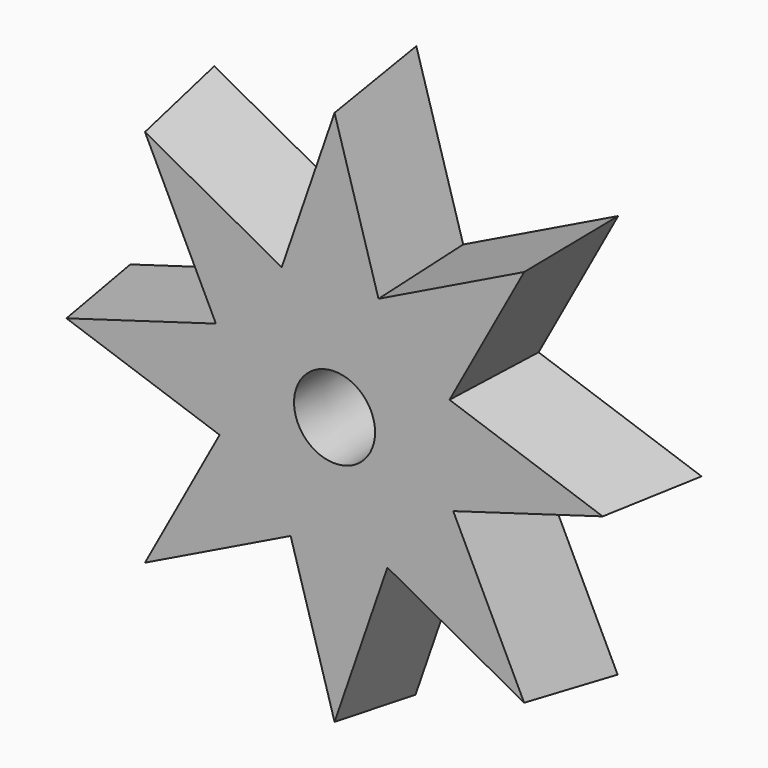
from build123d import *

# Parameters (mm, degrees)
F0_R     = 7.6071600852
F1_DEPTH = 19.09754
F1_TAPER = -3


with BuildPart() as f1:
    # F0 (on Front) → F1 (new body)
    with BuildSketch(Plane.XZ):
        with BuildLine():
            ThreePointArc((-4.6388319141, 18.7061527472), (-1.4012654558, 19.2217420452), (1.8768469353, 19.1811458915))
            Line((1.8768469353, 19.1811458915), (8.2491056776, 22.2835490331))
            Line((8.2491056776, 22.2835490331), (0, 50.3449775279))
            Line((0, 50.3449775279), (-9.9238500669, 21.5898471936))
            Line((-9.9238500669, 21.5898471936), (-4.6388319141, 18.7061527472))
        make_face()
        with BuildLine():
            Line((9.9238500669, -21.5898471936), (4.6388319141, -18.7061527472))
            ThreePointArc((4.6388319141, -18.7061527472), (1.4012654558, -19.2217420452), (-1.8768469353, -19.1811458915))
            Line((-1.8768469353, -19.1811458915), (-8.2491056776, -22.2835490331))
            Line((-8.2491056776, -22.2835490331), (0, -50.3449775279))
            Line((0, -50.3449775279), (9.9238500669, -21.5898471936))
        make_face()
        with BuildLine():
            Line((-8.2491056776, -22.2835490331), (-1.8768469353, -19.1811458915))
            ThreePointArc((-1.8768469353, -19.1811458915), (-6.0612417477, -18.294815129), (-9.9470979542, -16.5073969607))
            Line((-9.9470979542, -16.5073969607), (-8.2491056776, -22.2835490331))
        make_face()
        with BuildLine():
            ThreePointArc((18.7061527472, 4.6388319141), (19.1305766639, 2.3366532985), (19.2727505076, 0))
            ThreePointArc((19.2727505076, 0), (19.2498357311, -0.9395405559), (19.1811458915, -1.8768469353))
            Line((19.1811458915, -1.8768469353), (22.2835490331, -8.2491056776))
            Line((22.2835490331, -8.2491056776), (50.3449775279, 0))
            Line((50.3449775279, 0), (21.5898471936, 9.9238500669))
            Line((21.5898471936, 9.9238500669), (18.7061527472, 4.6388319141))
        make_face()
        with BuildLine():
            Line((22.2835490331, -8.2491056776), (16.5073969607, -9.9470979542))
            ThreePointArc((16.5073969607, -9.9470979542), (14.5826684524, -12.6009798404), (12.2359871356, -14.890249526))
            Line((12.2359871356, -14.890249526), (9.9238500669, -21.5898471936))
            Line((9.9238500669, -21.5898471936), (35.5992750086, -35.5992750086))
            Line((35.5992750086, -35.5992750086), (22.2835490331, -8.2491056776))
        make_face()
        with BuildLine():
            ThreePointArc((14.890249526, 12.2359871356), (17.2223329805, 8.6504426961), (18.7061527472, 4.6388319141))
            Line((18.7061527472, 4.6388319141), (21.5898471936, 9.9238500669))
            Line((21.5898471936, 9.9238500669), (14.890249526, 12.2359871356))
        make_face()
        with BuildLine():
            ThreePointArc((1.8768469353, 19.1811458915), (6.0612417477, 18.294815129), (9.9470979542, 16.5073969607))
            Line((9.9470979542, 16.5073969607), (8.2491056776, 22.2835490331))
            Line((8.2491056776, 22.2835490331), (1.8768469353, 19.1811458915))
        make_face()
        with BuildLine():
            ThreePointArc((-19.1811458915, 1.8768469353), (-18.294815129, 6.0612417477), (-16.5073969607, 9.9470979542))
            Line((-16.5073969607, 9.9470979542), (-22.2835490331, 8.2491056776))
            Line((-22.2835490331, 8.2491056776), (-19.1811458915, 1.8768469353))
        make_face()
        with BuildLine():
            ThreePointArc((-12.2359871356, 14.890249526), (-8.6504426961, 17.2223329805), (-4.6388319141, 18.7061527472))
            Line((-4.6388319141, 18.7061527472), (-9.9238500669, 21.5898471936))
            Line((-9.9238500669, 21.5898471936), (-12.2359871356, 14.890249526))
        make_face()
        with BuildLine():
            Line((-21.5898471936, -9.9238500669), (-14.890249526, -12.2359871356))
            ThreePointArc((-14.890249526, -12.2359871356), (-17.2223329805, -8.6504426961), (-18.7061527472, -4.6388319141))
            Line((-18.7061527472, -4.6388319141), (-21.5898471936, -9.9238500669))
        make_face()
        with BuildLine():
            Line((9.9238500669, -21.5898471936), (12.2359871356, -14.890249526))
            ThreePointArc((12.2359871356, -14.890249526), (8.6504426961, -17.2223329805), (4.6388319141, -18.7061527472))
            Line((4.6388319141, -18.7061527472), (9.9238500669, -21.5898471936))
        make_face()
        with BuildLine():
            Line((22.2835490331, -8.2491056776), (19.1811458915, -1.8768469353))
            ThreePointArc((19.1811458915, -1.8768469353), (18.294815129, -6.0612417477), (16.5073969607, -9.9470979542))
            Line((16.5073969607, -9.9470979542), (22.2835490331, -8.2491056776))
        make_face()
        with BuildLine():
            ThreePointArc((9.9470979542, 16.5073969607), (12.6009798404, 14.5826684524), (14.890249526, 12.2359871356))
            Line((14.890249526, 12.2359871356), (21.5898471936, 9.9238500669))
            Line((21.5898471936, 9.9238500669), (35.5992750086, 35.5992750086))
            Line((35.5992750086, 35.5992750086), (8.2491056776, 22.2835490331))
            Line((8.2491056776, 22.2835490331), (9.9470979542, 16.5073969607))
        make_face()
        with BuildLine():
            ThreePointArc((-16.5073969607, 9.9470979542), (-14.5826684524, 12.6009798404), (-12.2359871356, 14.890249526))
            Line((-12.2359871356, 14.890249526), (-9.9238500669, 21.5898471936))
            Line((-9.9238500669, 21.5898471936), (-35.5992750086, 35.5992750086))
            Line((-35.5992750086, 35.5992750086), (-22.2835490331, 8.2491056776))
            Line((-22.2835490331, 8.2491056776), (-16.5073969607, 9.9470979542))
        make_face()
        with BuildLine():
            ThreePointArc((-18.7061527472, -4.6388319141), (-19.2217420452, -1.4012654558), (-19.1811458915, 1.8768469353))
            Line((-19.1811458915, 1.8768469353), (-22.2835490331, 8.2491056776))
            Line((-22.2835490331, 8.2491056776), (-50.3449775279, 0))
            Line((-50.3449775279, 0), (-21.5898471936, -9.9238500669))
            Line((-21.5898471936, -9.9238500669), (-18.7061527472, -4.6388319141))
        make_face()
        with BuildLine():
            Line((-8.2491056776, -22.2835490331), (-9.9470979542, -16.5073969607))
            ThreePointArc((-9.9470979542, -16.5073969607), (-12.6009798404, -14.5826684524), (-14.890249526, -12.2359871356))
            Line((-14.890249526, -12.2359871356), (-21.5898471936, -9.9238500669))
            Line((-21.5898471936, -9.9238500669), (-35.5992750086, -35.5992750086))
            Line((-35.5992750086, -35.5992750086), (-8.2491056776, -22.2835490331))
        make_face()
        with BuildLine():
            ThreePointArc((19.1811458915, -1.8768469353), (19.2498357311, -0.9395405559), (19.2727505076, 0))
            ThreePointArc((19.2727505076, 0), (19.1305766639, 2.3366532985), (18.7061527472, 4.6388319141))
            ThreePointArc((18.7061527472, 4.6388319141), (17.2223329805, 8.6504426961), (14.890249526, 12.2359871356))
            ThreePointArc((14.890249526, 12.2359871356), (12.6009798404, 14.5826684524), (9.9470979542, 16.5073969607))
            ThreePointArc((9.9470979542, 16.5073969607), (6.0612417477, 18.294815129), (1.8768469353, 19.1811458915))
            ThreePointArc((1.8768469353, 19.1811458915), (-1.4012654558, 19.2217420452), (-4.6388319141, 18.7061527472))
            ThreePointArc((-4.6388319141, 18.7061527472), (-8.6504426961, 17.2223329805), (-12.2359871356, 14.890249526))
            ThreePointArc((-12.2359871356, 14.890249526), (-14.5826684524, 12.6009798404), (-16.5073969607, 9.9470979542))
            ThreePointArc((-16.5073969607, 9.9470979542), (-18.294815129, 6.0612417477), (-19.1811458915, 1.8768469353))
            ThreePointArc((-19.1811458915, 1.8768469353), (-19.2217420452, -1.4012654558), (-18.7061527472, -4.6388319141))
            ThreePointArc((-18.7061527472, -4.6388319141), (-17.2223329805, -8.6504426961), (-14.890249526, -12.2359871356))
            ThreePointArc((-14.890249526, -12.2359871356), (-12.6009798404, -14.5826684524), (-9.9470979542, -16.5073969607))
            ThreePointArc((-9.9470979542, -16.5073969607), (-6.0612417477, -18.294815129), (-1.8768469353, -19.1811458915))
            ThreePointArc((-1.8768469353, -19.1811458915), (1.4012654558, -19.2217420452), (4.6388319141, -18.7061527472))
            ThreePointArc((4.6388319141, -18.7061527472), (8.6504426961, -17.2223329805), (12.2359871356, -14.890249526))
            ThreePointArc((12.2359871356, -14.890249526), (14.5826684524, -12.6009798404), (16.5073969607, -9.9470979542))
            ThreePointArc((16.5073969607, -9.9470979542), (18.294815129, -6.0612417477), (19.1811458915, -1.8768469353))
        make_face()
        Circle(F0_R, mode=Mode.SUBTRACT)
    extrude(amount=-F1_DEPTH, taper=F1_TAPER)


solid = f1.part
